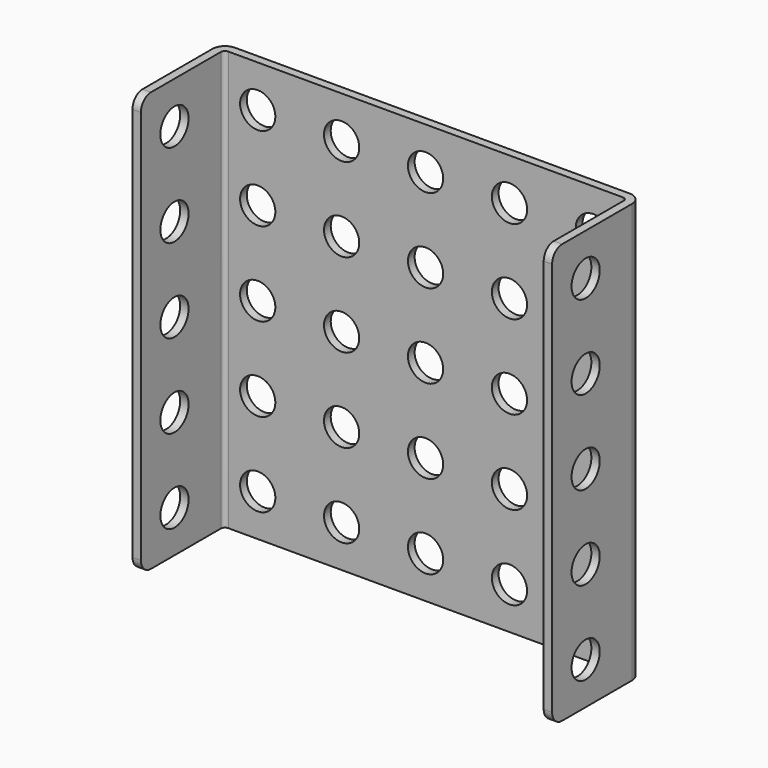
from build123d import *

# Parameters (mm, degrees)
PAD_DEPTH       = 50
FILLET_R        = 1.5
FILLET001_R     = 1.5
FILLET002_R     = 1.5
FILLET003_R     = 1.5
SKETCH001_R     = 2.1
POCKET_DEPTH    = 50.001
SKETCH002_R     = 2.1
POCKET001_DEPTH = 13.401


with BuildPart() as part:
    # Sketch → Pad (new body)
    with BuildSketch(Plane.XY):
        with BuildLine():
            Line((0, 0), (0, 11.9))
            ThreePointArc((1.5, 13.4), (0.43934, 12.96066), (0, 11.9))
            Line((1.5, 13.4), (48.5, 13.4))
            ThreePointArc((50, 11.9), (49.56066, 12.96066), (48.5, 13.4))
            Line((50, 11.9), (50, 0))
            Line((49, 0), (50, 0))
            Line((49, 11.9), (49, 0))
            ThreePointArc((49, 11.9), (48.853553, 12.253553), (48.5, 12.4))
            Line((1.5, 12.4), (48.5, 12.4))
            ThreePointArc((1.5, 12.4), (1.146447, 12.253553), (1, 11.9))
            Line((1, 0), (1, 11.9))
            Line((0, 0), (1, 0))
        make_face()
    extrude(amount=PAD_DEPTH)

    # Fillet
    fillet_edges = [part.edges().sort_by_distance(p)[0] for p in [
        (49.5, 0, 0),
    ]]
    fillet(fillet_edges, radius=FILLET_R)

    # Fillet001
    fillet001_edges = [part.edges().sort_by_distance(p)[0] for p in [
        (0.5, 0, 0),
    ]]
    fillet(fillet001_edges, radius=FILLET001_R)

    # Fillet002
    fillet002_edges = [part.edges().sort_by_distance(p)[0] for p in [
        (49.5, 0, 50),
    ]]
    fillet(fillet002_edges, radius=FILLET002_R)

    # Fillet003
    fillet003_edges = [part.edges().sort_by_distance(p)[0] for p in [
        (0.5, 0, 50),
    ]]
    fillet(fillet003_edges, radius=FILLET003_R)

    # Sketch001 → Pocket (cut, through all)
    with BuildSketch(Plane(origin=(0, 0, 0), x_dir=(0, -1, 0), z_dir=(-1, 0, 0))):
        with Locations((-5, 5)):
            Circle(SKETCH001_R)
        with Locations((-5, 15)):
            Circle(SKETCH001_R)
        with Locations((-5, 25)):
            Circle(SKETCH001_R)
        with Locations((-5, 35)):
            Circle(SKETCH001_R)
        with Locations((-5, 45)):
            Circle(SKETCH001_R)
    extrude(amount=-POCKET_DEPTH, mode=Mode.SUBTRACT)

    # Sketch002 → Pocket001 (cut, through all)
    with BuildSketch(Plane(origin=(0, 13.4, 0), x_dir=(-1, 0, 0), z_dir=(0, 1, 0))):
        with Locations((-5, 5)):
            Circle(SKETCH002_R)
        with Locations((-5, 15)):
            Circle(SKETCH002_R)
        with Locations((-5, 25)):
            Circle(SKETCH002_R)
        with Locations((-5, 35)):
            Circle(SKETCH002_R)
        with Locations((-5, 45)):
            Circle(SKETCH002_R)
        with Locations((-15, 45)):
            Circle(SKETCH002_R)
        with Locations((-25, 45)):
            Circle(SKETCH002_R)
        with Locations((-35, 45)):
            Circle(SKETCH002_R)
        with Locations((-45, 45)):
            Circle(SKETCH002_R)
        with Locations((-15, 35)):
            Circle(SKETCH002_R)
        with Locations((-25, 35)):
            Circle(SKETCH002_R)
        with Locations((-35, 35)):
            Circle(SKETCH002_R)
        with Locations((-45, 35)):
            Circle(SKETCH002_R)
        with Locations((-15, 25)):
            Circle(SKETCH002_R)
        with Locations((-25, 25)):
            Circle(SKETCH002_R)
        with Locations((-35, 25)):
            Circle(SKETCH002_R)
        with Locations((-45, 25)):
            Circle(SKETCH002_R)
        with Locations((-15, 15)):
            Circle(SKETCH002_R)
        with Locations((-25, 15)):
            Circle(SKETCH002_R)
        with Locations((-35, 15)):
            Circle(SKETCH002_R)
        with Locations((-45, 15)):
            Circle(SKETCH002_R)
        with Locations((-15, 5)):
            Circle(SKETCH002_R)
        with Locations((-25, 5)):
            Circle(SKETCH002_R)
        with Locations((-35, 5)):
            Circle(SKETCH002_R)
        with Locations((-45, 5)):
            Circle(SKETCH002_R)
    extrude(amount=-POCKET001_DEPTH, mode=Mode.SUBTRACT)


solid = part.part
